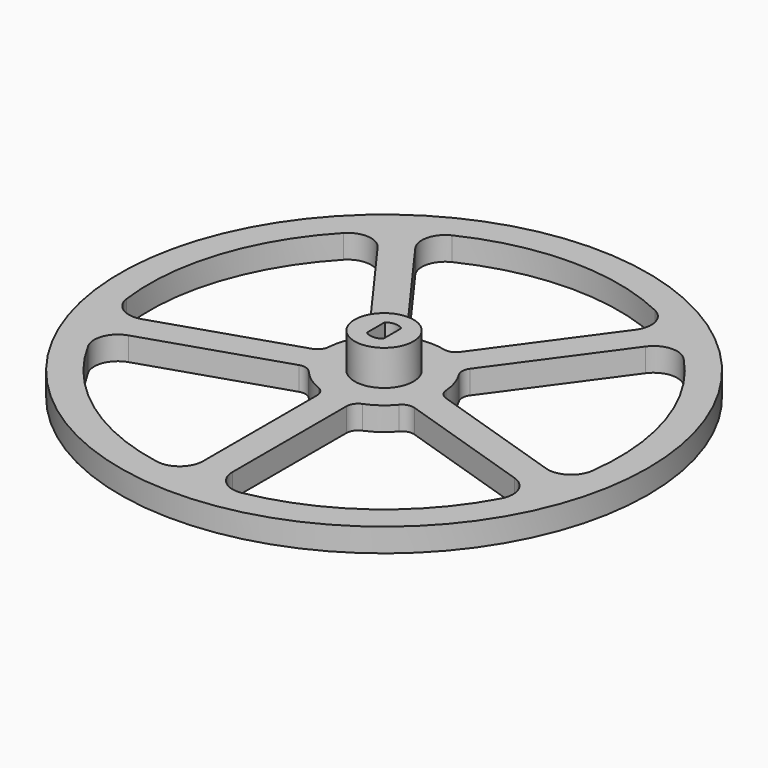
from build123d import *

# Parameters (mm, degrees)
SKETCH_R           = 44.85
PAD_DEPTH          = 4
POCKET_DEPTH       = 4
POLARPATTERN_COUNT = 5
SKETCH003_R        = 5
PAD001_DEPTH       = 6
POCKET001_DEPTH    = 9
FILLET_R           = 2
FILLET001_R        = 4


with BuildPart() as part:
    # Sketch → Pad (new body)
    with BuildSketch(Plane.XY):
        Circle(SKETCH_R)
    extrude(amount=PAD_DEPTH)

    # Sketch002 (on Face2 of Pad) → Pocket (cut)
    with BuildSketch(Plane(origin=(0, 0, 0), x_dir=(1, 0, 0), z_dir=(0, 0, -1))):
        with BuildLine():
            Line((-2.5, 39.821602), (-2.5, 9.682458))
            ThreePointArc((-2.5, 9.682458), (-5.877853, 8.09017), (-8.436023, 5.369685))
            Line((-37.100052, 14.683193), (-8.436023, 5.369685))
            ThreePointArc((-2.5, 39.821602), (-23.452632, 32.279778), (-37.100052, 14.683193))
        make_face()
    pocket = extrude(amount=-POCKET_DEPTH, mode=Mode.SUBTRACT)

    # PolarPattern: Pocket ×5 about axis
    polarpattern_axis = Axis((0, 0, 0), (0, 0, -1))
    for i in range(1, POLARPATTERN_COUNT):
        add(pocket.rotate(polarpattern_axis, i * 360 / POLARPATTERN_COUNT), mode=Mode.SUBTRACT)

    # Sketch003 (on Face3 of PolarPattern) → Pad001 (join)
    with BuildSketch(Plane.XY.offset(4)):
        Circle(SKETCH003_R)
    extrude(amount=PAD001_DEPTH)

    # Sketch004 (on Face25 of Pad001) → Pocket001 (cut)
    with BuildSketch(Plane.XY.offset(10)):
        with BuildLine():
            Line((-1.4, 1.906102), (-1.4, -1.912302))
            ThreePointArc((-1.4, -1.912302), (0, -2.37), (1.4, -1.912302))
            Line((1.4, 1.906102), (1.4, -1.912302))
            ThreePointArc((1.4, 1.906102), (0, 2.365), (-1.4, 1.906102))
        make_face()
    extrude(amount=-POCKET001_DEPTH, mode=Mode.SUBTRACT)

    # Fillet
    fillet_edges = [part.edges().sort_by_distance(p)[0] for p in [
        (-3.668664, 9.302736, 2),
        (3.668664, 9.302736, 2),
        (-7.713749, 6.36381, 2),
        (-9.981108, -0.614403, 2),
        (-8.436023, -5.369685, 2),
        (2.5, -9.682458, 2),
        (8.436023, -5.369685, 2),
        (-2.5, -9.682458, 2),
        (9.981108, -0.614403, 2),
        (7.713749, 6.36381, 2),
    ]]
    fillet(fillet_edges, radius=FILLET_R)

    # Fillet001
    fillet001_edges = [part.edges().sort_by_distance(p)[0] for p in [
        (-38.645137, -9.927911, 2),
        (-25.429093, 30.74689, 2),
        (21.384008, 33.685816, 2),
        (37.100052, -14.683193, 2),
        (-2.5, -39.821602, 2),
        (-37.100052, -14.683193, 2),
        (2.5, -39.821602, 2),
        (25.429093, 30.74689, 2),
        (38.645137, -9.927911, 2),
        (-21.384008, 33.685816, 2),
    ]]
    fillet(fillet001_edges, radius=FILLET001_R)


solid = part.part
